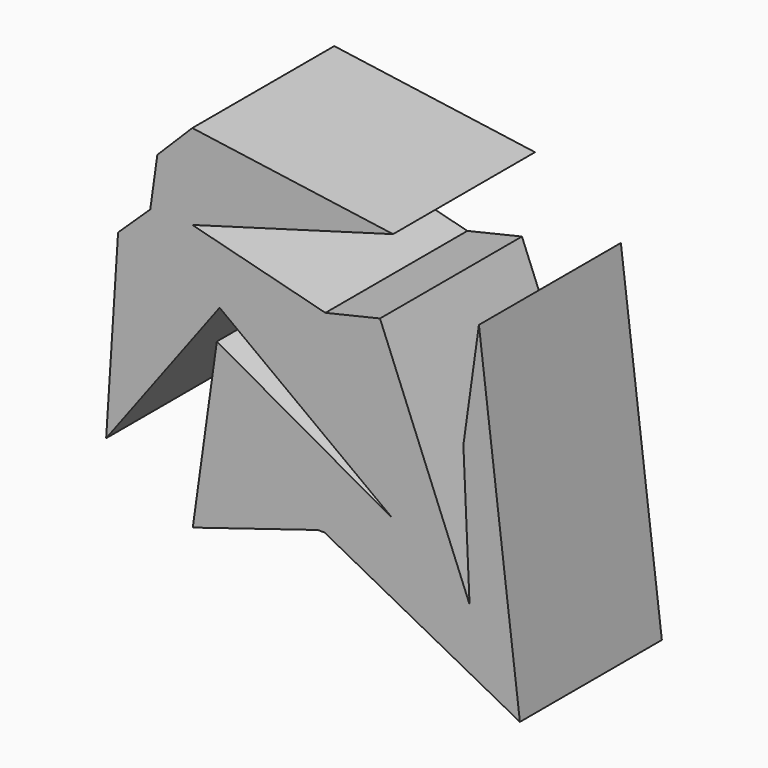
from build123d import *

# Parameters (mm, degrees)
F1_DEPTH = 25.4


with BuildPart() as f1:
    # F0 (on Front) → F1 (new body)
    with BuildSketch(Plane.XZ):
        Polygon((-15.530032, 17.214513), (-20.137463, 12.818224), (-21.847131, -13.681631), (-5.605284, 8.055577), (19.222586, -10.495585), (-6.002982, 3.663681), (-9.446928, -20.903137), (8.438419, -15.3913), (9.415373, -15.3913), (37.380657, -30.167717), (31.514158, 17.96153), (29.290287, 2.097916), (30.175628, -17.711565), (17.353116, 14.161535), (9.537492, 12.329748), (-9.513096, 17.214513), (19.222586, 25.396495), (-9.513096, 29.424861), (-14.519981, 24.419542), align=None)
    extrude(amount=F1_DEPTH)


solid = f1.part
